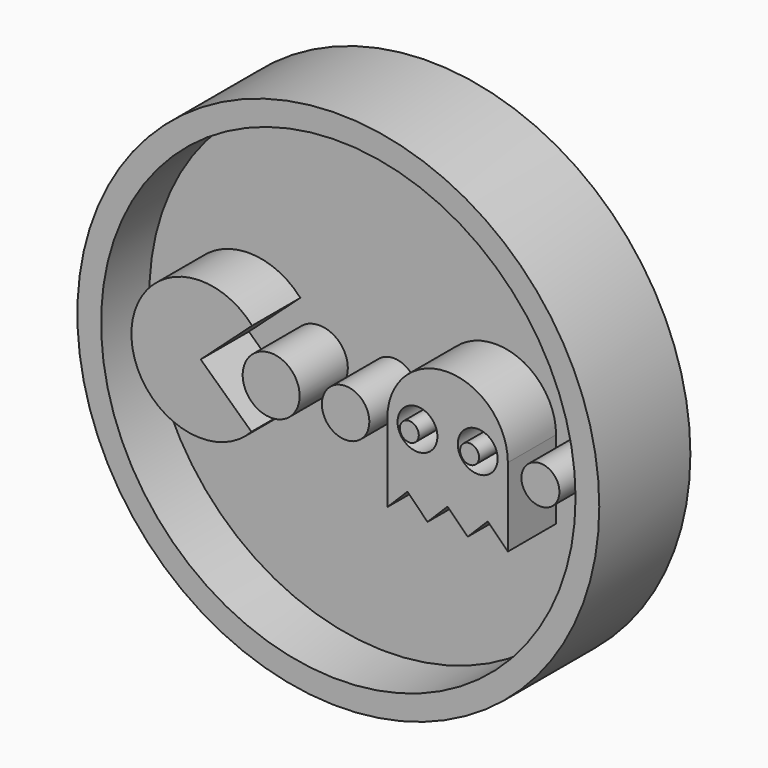
from build123d import *

# Parameters (mm, degrees)
F0_R     = 27.5
F1_DEPTH = 12
F2_R     = 25
F3_DEPTH = 6.35
F4_R     = 3
F4_R_2   = 2.1
F4_R_3   = 2.5
F4_R_4   = 2
F4_R_5   = 1
F5_DEPTH = 6.35


with BuildPart() as f1:
    # F0 (on Front) → F1 (new body)
    with BuildSketch(Plane.XZ):
        Circle(F0_R)
    extrude(amount=F1_DEPTH)

    # F2 (on face) → F3 (cut)
    with BuildSketch(Plane.XZ.offset(12)):
        Circle(F2_R)
    extrude(amount=-F3_DEPTH, mode=Mode.SUBTRACT)

    # F4 (on face) → F5 (join)
    with BuildSketch(Plane.XZ.offset(5.65)):
        with BuildLine():
            Line((-14.503664, 0), (-9.082651, 4.892762))
            ThreePointArc((-9.082651, 4.892762), (-21.805957, 0.055061), (-9.157048, -4.973953))
            Line((-9.157048, -4.973953), (-14.503664, 0))
        make_face()
        with Locations((-7.077939, 0)):
            Circle(F4_R)
        with BuildLine():
            ThreePointArc((17.865209, 0.9525), (11.515209, 7.3025), (5.165209, 0.9525))
            Line((5.165209, 0.9525), (5.165209, -7.3025))
            Line((5.165209, -7.3025), (7.281875, -5.185833))
            Line((7.281875, -5.185833), (9.398542, -7.3025))
            Line((9.398542, -7.3025), (11.515209, -5.185833))
            Line((11.515209, -5.185833), (13.631875, -7.3025))
            Line((13.631875, -7.3025), (15.748542, -5.185833))
            Line((15.748542, -5.185833), (17.865209, -7.3025))
            Line((17.865209, -7.3025), (17.865209, 0.9525))
        make_face()
        with Locations((8.340209, 0.9525)):
            Circle(F4_R_2, mode=Mode.SUBTRACT)
        with Locations((14.690209, 0.9525)):
            Circle(F4_R_2, mode=Mode.SUBTRACT)
        with Locations((0.767446, 0)):
            Circle(F4_R_3)
        with Locations((21.29638, 0)):
            Circle(F4_R_4)
        with Locations((7.478851, 0.4445)):
            Circle(F4_R_5)
        with Locations((13.828851, 0.4445)):
            Circle(F4_R_5)
    extrude(amount=F5_DEPTH)


solid = f1.part
